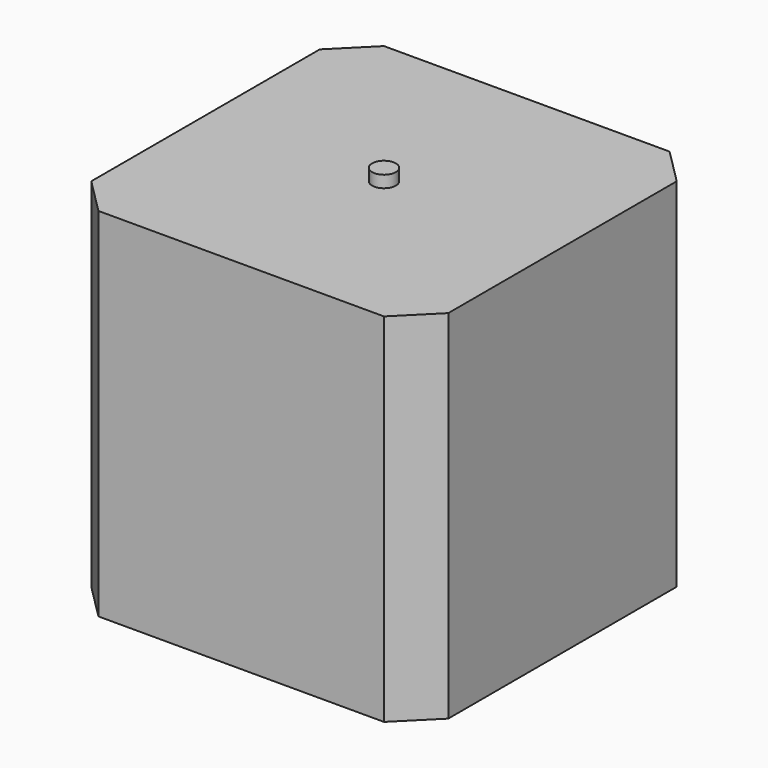
from build123d import *

# Parameters (mm, degrees)
F0_W     = 19.05
F0_H     = 19.05
F1_DEPTH = 19.05
F2_R     = 0.635
F3_DEPTH = 0.635
F4_R     = 0.635
F5_DEPTH = 0.635
F6_SIZE  = 1.905


with BuildPart() as f1:
    # F0 (on Top) → F1 (new body)
    with BuildSketch(Plane.XY):
        Rectangle(F0_W, F0_H)
    extrude(amount=F1_DEPTH)

    # F2 (on face) → F3 (join)
    with BuildSketch(Plane.XY.offset(19.05)):
        Circle(F2_R)
    extrude(amount=F3_DEPTH)

    # F4 (on face) → F5 (join)
    with BuildSketch(Plane(origin=(0, 0, 0), x_dir=(1, 0, 0), z_dir=(0, 0, -1))):
        Circle(F4_R)
    extrude(amount=F5_DEPTH)

    # F6
    f6_edges = [f1.edges().sort_by_distance(p)[0] for p in [
        (-9.525, -9.525, 9.525),
        (9.525, -9.525, 9.525),
        (9.525, 9.525, 9.525),
        (-9.525, 9.525, 9.525),
    ]]
    chamfer(f6_edges, length=F6_SIZE)


solid = f1.part
